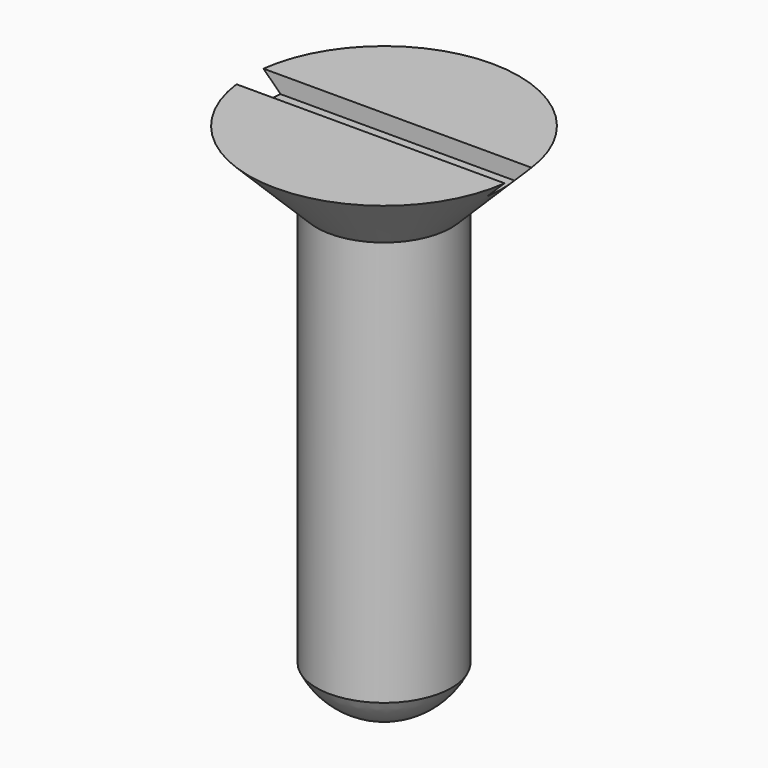
from build123d import *

# Parameters (mm, degrees)
F2_W     = 10.128174
F2_H     = 1
F3_DEPTH = 0.5


with BuildPart() as f1:
    # F0 (on Front) → F1 (revolve)
    with BuildSketch(Plane.XZ):
        with BuildLine():
            Line((0, 14), (0, 0))
            Line((0, 0), (0, -1.251342))
            ThreePointArc((0, -1.251342), (1.181918, -0.916427), (2, 0))
            Line((2, 0), (2, 12))
            Line((2, 12), (4, 14))
            Line((4, 14), (0, 14))
        make_face()
    revolve(axis=Axis((0, 0, 7), (0, 0, 1)))

    # F2 (on face) → F3 (cut)
    with BuildSketch(Plane.XY.offset(14)):
        Rectangle(F2_W, F2_H)
    extrude(amount=-F3_DEPTH, mode=Mode.SUBTRACT)


solid = f1.part
